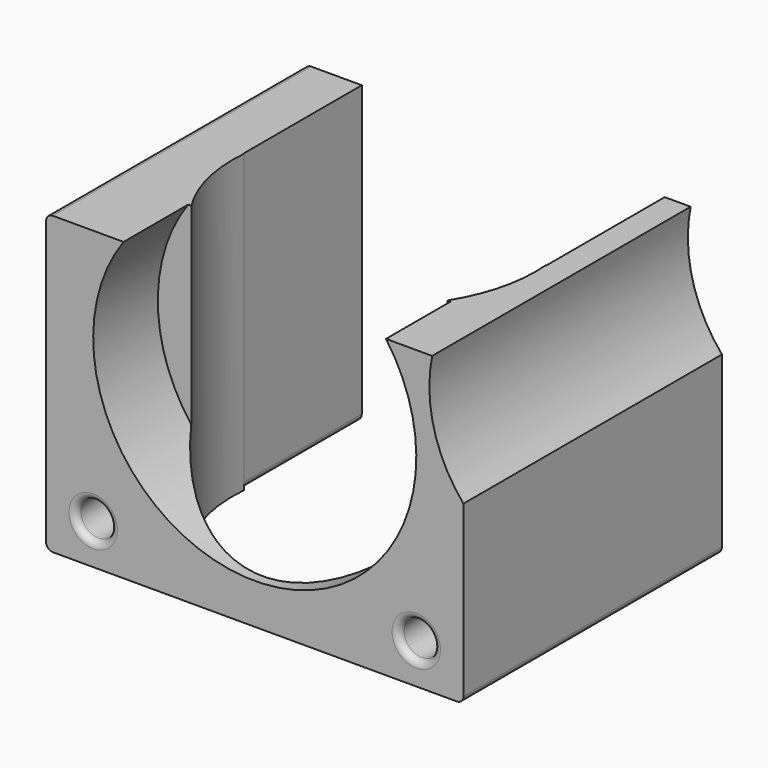
from build123d import *

# Parameters (mm, degrees)
SKETCH_W        = 31
SKETCH_H        = 24
PAD_DEPTH       = 22
SKETCH001_R     = 12
SKETCH001_R_2   = 1.3
POCKET_DEPTH    = 6
SKETCH002_R     = 11.25
POCKET001_DEPTH = 22.001
SKETCH003_W     = 22.5
SKETCH003_H     = 22
POCKET002_DEPTH = 11
SKETCH004_R     = 10.5
POCKET003_DEPTH = 24.001
FILLET017_R     = 0.5


with BuildPart() as part:
    # Sketch → Pad (new body)
    with BuildSketch(Plane.XY):
        Rectangle(SKETCH_W, SKETCH_H)
    extrude(amount=PAD_DEPTH)

    # Sketch001 (on Face3 of Pad) → Pocket (cut)
    with BuildSketch(Plane.XZ.offset(12)):
        with Locations((0, 15)):
            Circle(SKETCH001_R)
        with Locations((-12, 3)):
            Circle(SKETCH001_R_2)
        with Locations((12, 3)):
            Circle(SKETCH001_R_2)
        with Locations((12, 27)):
            Circle(SKETCH001_R_2)
        with Locations((-12, 27)):
            Circle(SKETCH001_R_2)
    extrude(amount=-POCKET_DEPTH, mode=Mode.SUBTRACT)

    # Sketch002 (on Face4 of Pocket) → Pocket001 (cut, through all)
    with BuildSketch(Plane(origin=(0, 0, 0), x_dir=(1, 0, 0), z_dir=(0, 0, -1))):
        Circle(SKETCH002_R)
    extrude(amount=-POCKET001_DEPTH, mode=Mode.SUBTRACT)

    # Sketch003 (on Face1 of Pocket001) → Pocket002 (cut)
    with BuildSketch(Plane(origin=(0, 12, 0), x_dir=(-1, 0, 0), z_dir=(0, 1, 0))):
        with Locations((0, 11)):
            Rectangle(SKETCH003_W, SKETCH003_H)
    extrude(amount=-POCKET002_DEPTH, mode=Mode.SUBTRACT)

    # Sketch004 (on Face6 of Pocket002) → Pocket003 (cut, through all)
    with BuildSketch(Plane.XZ.offset(12)):
        with Locations((23.47, 19.93)):
            Circle(SKETCH004_R)
    extrude(amount=-POCKET003_DEPTH, mode=Mode.SUBTRACT)

    # Fillet017
    fillet017_edges = [part.edges().sort_by_distance(p)[0] for p in [
        (-13.3, -12, 3),
        (10.7, -12, 3),
        (-15.5, 0, 0),
        (-15.5, 0, 22),
        (15.5, 0, 0),
        (11.25, 6.5, 0),
        (-11.25, 6.5, 0),
    ]]
    fillet(fillet017_edges, radius=FILLET017_R)


with BuildPart() as part_1:
    # Body placement: moved
    add(part.part.moved(Location((-9, -12, -33))))


solid = part_1.part
